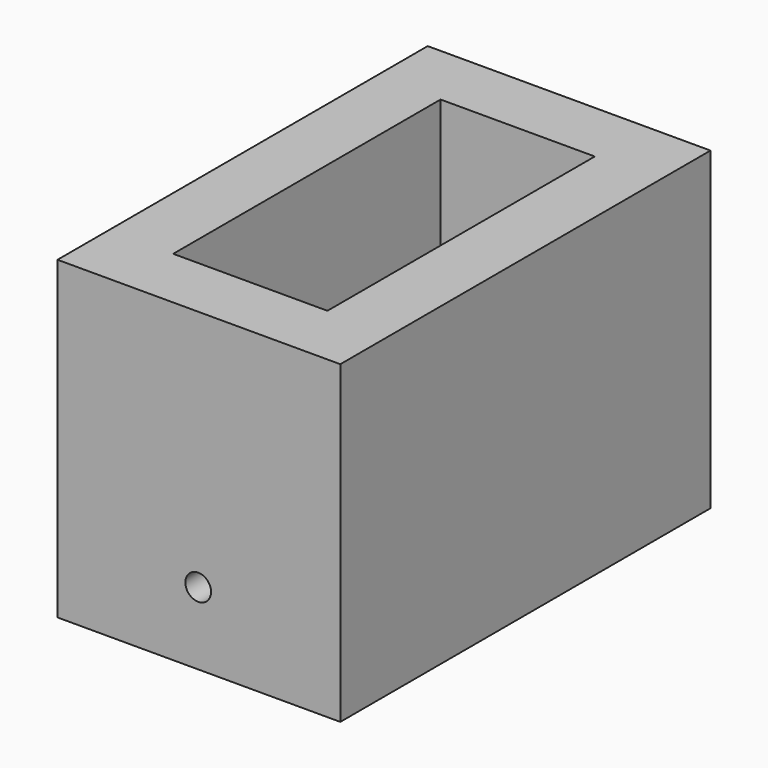
from build123d import *

# Parameters (mm, degrees)
F0_W     = 22
F0_H     = 36
F0_W_2   = 12
F0_H_2   = 26
F1_DEPTH = 24.5
F2_DEPTH = 2
F3_R     = 1
F4_DEPTH = 36.001


with BuildPart() as f1:
    # F0 (on Top) → F1 (new body)
    with BuildSketch(Plane.XY):
        with Locations((6, -13)):
            Rectangle(F0_W, F0_H)
        with Locations((6, -13)):
            Rectangle(F0_W_2, F0_H_2, mode=Mode.SUBTRACT)
    extrude(amount=F1_DEPTH)

    # F0 (on Top) → F2 (join)
    with BuildSketch(Plane.XY):
        with Locations((6, -13)):
            Rectangle(F0_W_2, F0_H_2)
    extrude(amount=F2_DEPTH)

    # F3 (on face) → F4 (cut, through all)
    with BuildSketch(Plane.XZ.offset(31)):
        with Locations((5.945511, 5.631423)):
            Circle(F3_R)
    extrude(amount=-F4_DEPTH, mode=Mode.SUBTRACT)


solid = f1.part
